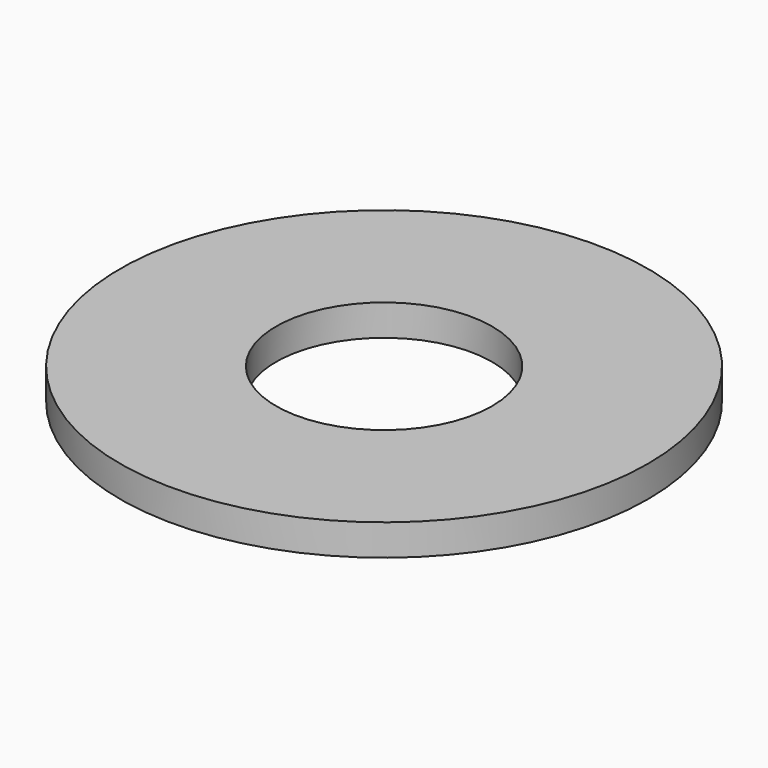
from build123d import *

# Parameters (mm, degrees)
SKETCH_R   = 11
SKETCH_R_2 = 4.5
PAD_DEPTH  = 1.3


with BuildPart() as part:
    # Sketch → Pad (new body)
    with BuildSketch(Plane.XY):
        Circle(SKETCH_R)
        Circle(SKETCH_R_2, mode=Mode.SUBTRACT)
    extrude(amount=PAD_DEPTH)


solid = part.part
